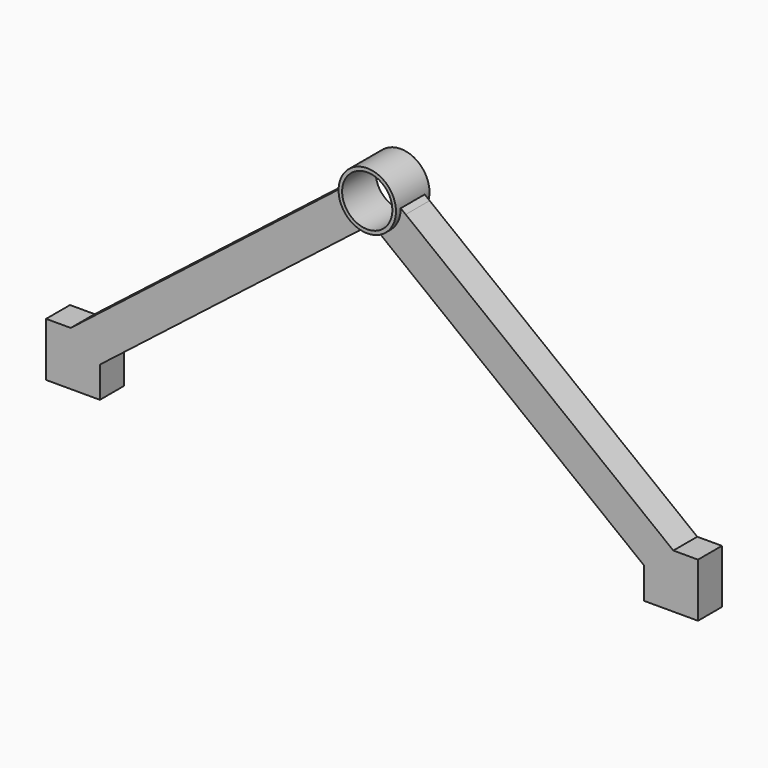
from build123d import *

# Parameters (mm, degrees)
F0_R     = 24
F0_R_2   = 21
F1_DEPTH = 17.5
F3_DEPTH = 12.5


with BuildPart() as f1:
    # F0 (on Front) → F1 (new body, symmetric)
    with BuildSketch(Plane.XZ):
        Circle(F0_R)
        Circle(F0_R_2, mode=Mode.SUBTRACT)
    extrude(amount=F1_DEPTH, both=True)

    # F2 (on Front) → F3 (join, symmetric)
    with BuildSketch(Plane.XZ):
        with BuildLine():
            Line((251.8847116829, -177.5), (236.7270928985, -165.6737260034))
            Line((236.7270928985, -165.6737260034), (28.1491312931, -2.9370746409))
            Line((28.1491312931, -2.9370746409), (23.9981043859, 0.3016386602))
            ThreePointArc((23.9981043859, 0.3016386602), (18.9220383946, -14.7633486375), (5.543918589, -23.350909333))
            Line((5.543918589, -23.350909333), (9.6949454961, -26.5896226342))
            Line((9.6949454961, -26.5896226342), (218.2729071015, -189.3262739966))
            Line((218.2729071015, -189.3262739966), (227.5, -196.5254343899))
            Line((227.5, -196.5254343899), (227.5, -222.5))
            Line((227.5, -222.5), (272.5, -222.5))
            Line((272.5, -222.5), (272.5, -177.5))
            Line((272.5, -177.5), (251.8847116829, -177.5))
        make_face()
        with BuildLine():
            Line((-272.5, -222.5), (-227.5, -222.5))
            Line((-227.5, -222.5), (-227.5, -196.5254343899))
            Line((-227.5, -196.5254343899), (-218.2729071015, -189.3262739966))
            Line((-218.2729071015, -189.3262739966), (-9.6949454961, -26.5896226342))
            Line((-9.6949454961, -26.5896226342), (-5.543918589, -23.350909333))
            ThreePointArc((-5.543918589, -23.350909333), (-18.9220383946, -14.7633486375), (-23.9981043859, 0.3016386602))
            Line((-23.9981043859, 0.3016386602), (-28.1491312931, -2.9370746409))
            Line((-28.1491312931, -2.9370746409), (-236.7270928985, -165.6737260034))
            Line((-236.7270928985, -165.6737260034), (-251.8847116829, -177.5))
            Line((-251.8847116829, -177.5), (-272.5, -177.5))
            Line((-272.5, -177.5), (-272.5, -222.5))
        make_face()
        with BuildLine():
            Line((251.8847116829, -177.5), (236.7270928985, -165.6737260034))
            Line((236.7270928985, -165.6737260034), (28.1491312931, -2.9370746409))
            Line((28.1491312931, -2.9370746409), (23.9981043859, 0.3016386602))
            ThreePointArc((23.9981043859, 0.3016386602), (18.9220383946, -14.7633486375), (5.543918589, -23.350909333))
            Line((5.543918589, -23.350909333), (9.6949454961, -26.5896226342))
            Line((9.6949454961, -26.5896226342), (218.2729071015, -189.3262739966))
            Line((218.2729071015, -189.3262739966), (227.5, -196.5254343899))
            Line((227.5, -196.5254343899), (227.5, -222.5))
            Line((227.5, -222.5), (272.5, -222.5))
            Line((272.5, -222.5), (272.5, -177.5))
            Line((272.5, -177.5), (251.8847116829, -177.5))
        make_face()
    extrude(amount=F3_DEPTH, both=True)


solid = f1.part
